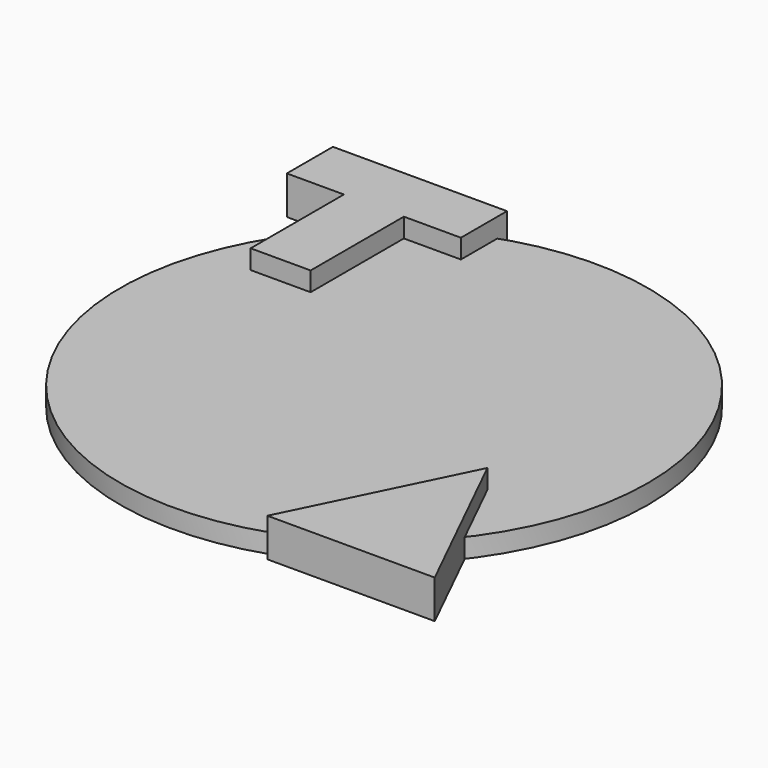
from build123d import *

# Parameters (mm, degrees)
F0_R     = 27.5
F2_DEPTH = 2
F3_DEPTH = 4
F4_DEPTH = 4


with BuildPart() as f2:
    # F0 (on Top) → F2 (new body)
    with BuildSketch(Plane.XY):
        Circle(F0_R)
    extrude(amount=F2_DEPTH)


with BuildPart() as f3:
    # F1 (on Top) → F3 (new body)
    with BuildSketch(Plane.XY):
        Polygon((-8.989121, 27.241041), (-27.125331, 27.241041), (-27.125331, 21.241041), (-21.181531, 21.241041), (-21.181531, 9.099432), (-14.93292, 9.099432), (-14.93292, 21.241041), (-8.989121, 21.241041), align=None)
    extrude(amount=F3_DEPTH)


with BuildPart() as f4:
    # F1 (on Top) → F4 (new body)
    with BuildSketch(Plane.XY):
        Polygon((26.75489, -26.846478), (18.035639, -9.085041), (9.316389, -26.846478), align=None)
    extrude(amount=F4_DEPTH)


solid = Compound([f2.part, f3.part, f4.part])
